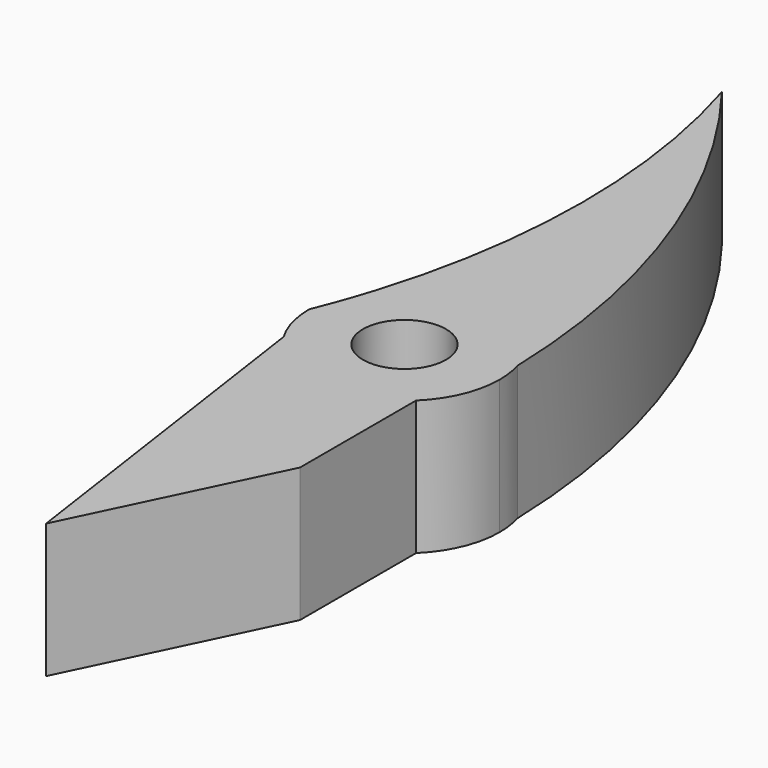
from build123d import *

# Parameters (mm, degrees)
F0_R     = 1.7
F1_DEPTH = 5.5


with BuildPart() as f1:
    # F0 (on Top) → F1 (new body)
    with BuildSketch(Plane.XY):
        with BuildLine():
            ThreePointArc((-3.024665, 2.461991), (0.769594, 3.823313), (3.741657, 1.1))
            ThreePointArc((3.741657, 1.1), (1.866017, 11.083336), (-3, 20))
            ThreePointArc((-3, 20), (-1.70213, 11.229153), (-3.024665, 2.461991))
        make_face()
        with BuildLine():
            ThreePointArc((2.714774, -2.8), (3.591491, -1.52026), (3.9, 0))
            ThreePointArc((3.9, 0), (3.860211, 0.555669), (3.741657, 1.1))
            ThreePointArc((3.741657, 1.1), (0.769594, 3.823313), (-3.024665, 2.461991))
            ThreePointArc((-3.024665, 2.461991), (-3.435515, 1.221461), (-3.9, 0))
            ThreePointArc((-3.9, 0), (-3.759503, -1.037371), (-3.348134, -2))
            ThreePointArc((-3.348134, -2), (-0.510182, -3.866486), (2.714774, -2.8))
        make_face()
        Circle(F0_R, mode=Mode.SUBTRACT)
        with BuildLine():
            Line((2.714774, -8.741404), (2.714774, -2.8))
            ThreePointArc((2.714774, -2.8), (-0.510182, -3.866486), (-3.348134, -2))
            Line((-3.348134, -2), (-1.2, -16.845387))
            Line((-1.2, -16.845387), (2.714774, -8.741404))
        make_face()
    extrude(amount=F1_DEPTH)


solid = f1.part
